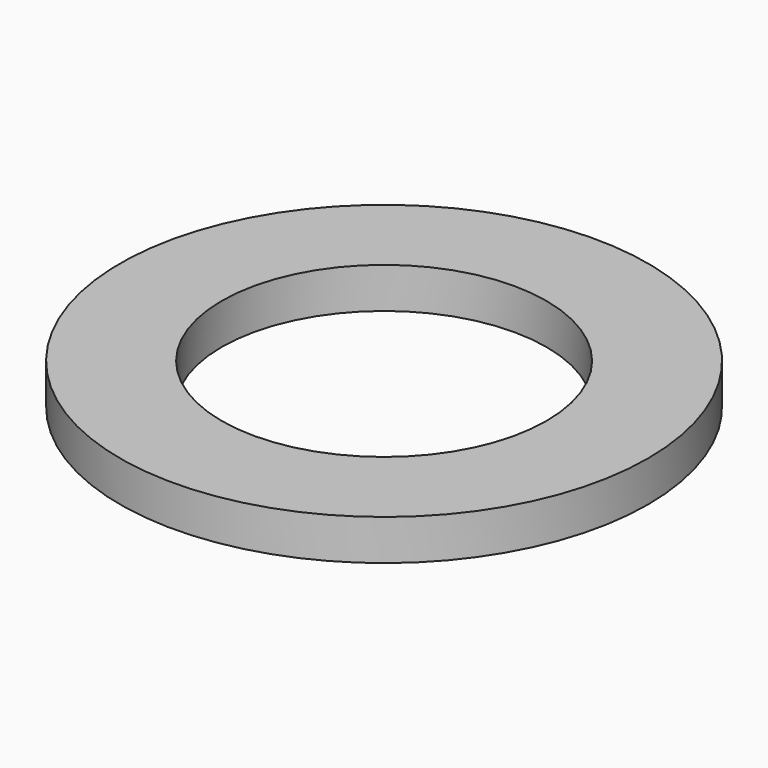
from build123d import *

# Parameters (mm, degrees)
CYLINDER007_R     = 0.4
CYLINDER007_DEPTH = 0.1
CYLINDER006_R     = 0.65
CYLINDER006_DEPTH = 0.1


with BuildPart() as cylinder007:
    # Cylinder007 → Cylinder007 (new body)
    with BuildSketch(Plane.XY.offset(1.62)):
        Circle(CYLINDER007_R)
    extrude(amount=CYLINDER007_DEPTH)


with BuildPart() as cut014:
    # Cylinder006 → Cylinder006 (new body)
    with BuildSketch(Plane.XY.offset(1.62)):
        Circle(CYLINDER006_R)
    extrude(amount=CYLINDER006_DEPTH)

    # Cut014: cut Cylinder007
    add(cylinder007.part, mode=Mode.SUBTRACT)


with BuildPart() as cut014_1:
    # Cut014 placement: moved
    add(cut014.part.moved(Location((23.96, 12.7, 0))))


solid = cut014_1.part
